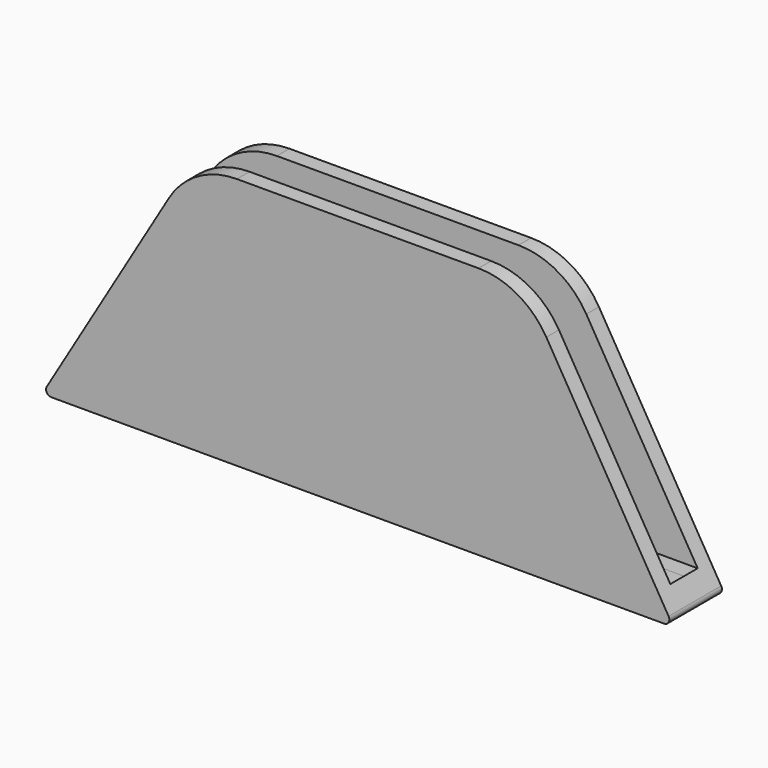
from build123d import *

# Parameters (mm, degrees)
PAD_DEPTH      = 12
PAD_DEPTH_BACK = 12
POCKET_DEPTH   = 2.501
FILLET_R       = 3
FILLET001_R    = 0.2


with BuildPart() as part:
    # Sketch → Pad (new body, two sides)
    with BuildSketch(Plane.YZ) as pad_sk:
        Polygon((0, 0), (0.65, 0), (0.65, 8.6), (1.25, 8.6), (1.25, -1), (0, -1), (-1.25, -1), (-1.25, 8.6), (-0.65, 8.6), (-0.65, -4e-06), align=None)
    extrude(amount=PAD_DEPTH)
    extrude(pad_sk.sketch, amount=-PAD_DEPTH_BACK)

    # Sketch001 (on Face7 of Pad) → Pocket (cut, through all)
    with BuildSketch(Plane(origin=(0, -1.25, 0), x_dir=(0, 0, -1), z_dir=(0, -1, 0))):
        Polygon((1, 12), (-8.6, 6.3), (-8.6, 0), (-8.6, -6.3), (1, -12), (1, -14), (-11, -14), (-11, 0), (-11, 14), (1, 14), align=None)
    extrude(amount=-POCKET_DEPTH, mode=Mode.SUBTRACT)

    # Fillet
    fillet_edges = [part.edges().sort_by_distance(p)[0] for p in [
        (6.3, -0.95, 8.6),
        (6.3, 0.95, 8.6),
        (-6.3, 0.95, 8.6),
        (-6.3, -0.95, 8.6),
    ]]
    fillet(fillet_edges, radius=FILLET_R)

    # Fillet001
    fillet001_edges = [part.edges().sort_by_distance(p)[0] for p in [
        (12, -0.625, -1),
        (12, 0.625, -1),
        (-12, 0.625, -1),
        (-12, -0.625, -1),
    ]]
    fillet(fillet001_edges, radius=FILLET001_R)


solid = part.part
